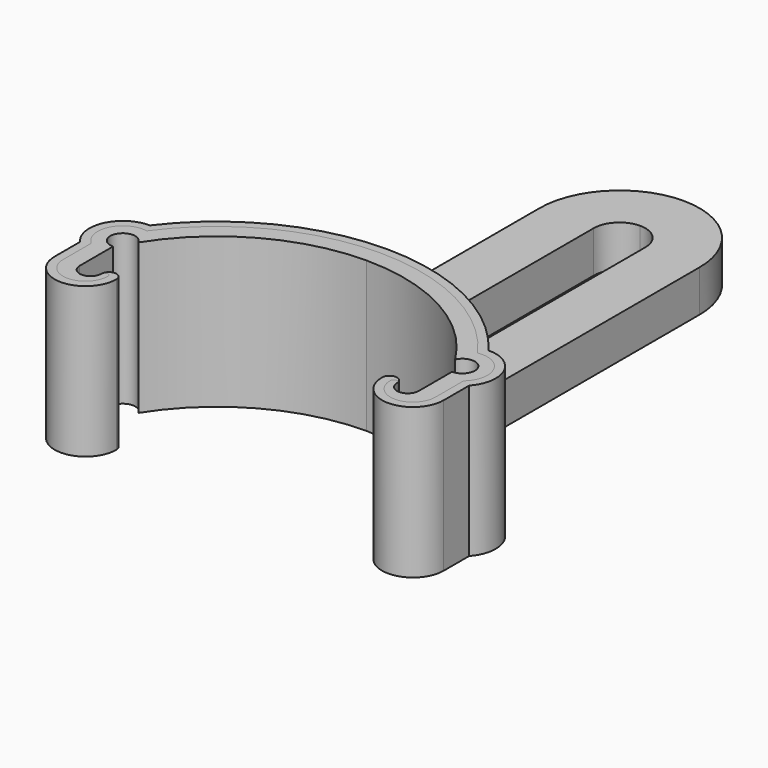
from build123d import *

# Parameters (mm, degrees)
PAD_DEPTH     = 18
PAD001_DEPTH  = 5
FILLET_R      = 4.5
PAD002_DEPTH  = 18
PAD003_START  = -22.5
SKETCH003_R   = 6
SKETCH003_R_2 = 2
PAD003_DEPTH  = 5.5


with BuildPart() as top:
    # Sketch → Pad (new body)
    with BuildSketch(Plane.XY):
        with BuildLine():
            ThreePointArc((19, 11.940476), (10.854147, 19.640837), (0, 22.440476))
            Line((0, 22.440476), (0, 25.440476))
            ThreePointArc((20.308305, 15.322878), (11.344525, 22.771025), (0, 25.440476))
            ThreePointArc((23.330239, 8.636282), (24.012189, 12.970645), (20.308305, 15.322878))
            Line((23.330239, 8.636282), (23.330239, 4.823765))
            ThreePointArc((15.930239, 4.823765), (19.630239, 1.123765), (23.330239, 4.823765))
            ThreePointArc((17.730239, 4.823765), (16.830239, 5.723765), (15.930239, 4.823765))
            ThreePointArc((17.730239, 4.823765), (19.030239, 3.523765), (20.330239, 4.823765))
            Line((20.330239, 9.823765), (20.330239, 4.823765))
            ThreePointArc((20.330239, 9.823765), (21.637179, 12.121454), (19, 11.940476))
        make_face()
    pad = extrude(amount=PAD_DEPTH)

    # Mirrored: Pad across Sketch V_Axis
    add(pad.mirror(Plane(origin=(0, 0, 0), x_dir=(0, 0, 1), z_dir=(1, 0, 0))))

    # Sketch001 (on Face4 of Mirrored) → Pad001 (join)
    with BuildSketch(Plane(origin=(0, 0, 0), x_dir=(1, 0, 0), z_dir=(0, 0, -1))):
        with BuildLine():
            Line((-9.6, -23.559665), (-9.6, -60.340476))
            ThreePointArc((-9.6, -60.340476), (-6.788225, -67.128701), (0, -69.940476))
            Line((0, -69.940476), (0, -63.440476))
            ThreePointArc((-3.1, -60.340476), (-2.192031, -62.532507), (0, -63.440476))
            Line((-3.1, -33.540476), (-3.1, -60.340476))
            ThreePointArc((0, -30.440476), (-2.192031, -31.348445), (-3.1, -33.540476))
            Line((0, -30.440476), (0, -25.440476))
            ThreePointArc((-9.6, -23.559665), (-4.891254, -24.965846), (0, -25.440476))
        make_face()
    pad001 = extrude(amount=-PAD001_DEPTH)

    # Mirrored001: Pad001 across Sketch001 V_Axis
    add(pad001.mirror(Plane(origin=(0, 0, 0), x_dir=(0, 0, -1), z_dir=(1, 0, 0))))

    # Fillet
    fillet_edges = [top.edges().sort_by_distance(p)[0] for p in [
        (-4.891254, 24.965846, 5),
        (4.891254, 24.965846, 5),
    ]]
    fillet(fillet_edges, radius=FILLET_R)


with BuildPart() as side:
    # Sketch002 → Pad002 (new body)
    with BuildSketch(Plane.XY):
        with BuildLine():
            ThreePointArc((19, 11.940476), (10.854147, 19.640837), (0, 22.440476))
            Line((0, 22.440476), (0, 24.440476))
            ThreePointArc((19.837522, 14.27619), (11.144954, 21.75148), (0, 24.440476))
            ThreePointArc((22.330239, 9.054767), (23.07446, 12.615784), (19.837522, 14.27619))
            Line((22.330239, 9.054767), (22.330239, 4.823765))
            ThreePointArc((16.930239, 4.823765), (19.630239, 2.123765), (22.330239, 4.823765))
            ThreePointArc((17.730239, 4.823765), (17.330239, 5.223765), (16.930239, 4.823765))
            ThreePointArc((17.730239, 4.823765), (19.030239, 3.523765), (20.330239, 4.823765))
            Line((20.330239, 9.823765), (20.330239, 4.823765))
            ThreePointArc((20.330239, 9.823765), (21.637179, 12.121454), (19, 11.940476))
        make_face()
    pad002 = extrude(amount=PAD002_DEPTH)

    # Mirrored002: Pad002 across Sketch002 V_Axis
    add(pad002.mirror(Plane(origin=(0, 0, 0), x_dir=(0, 0, 1), z_dir=(1, 0, 0))))

    # Sketch003 → Pad003 (join)
    with BuildSketch(Plane.XZ.offset(PAD003_START)):
        with Locations((0, 8.436387)):
            Circle(SKETCH003_R)
        with Locations((0, 8.436387)):
            Circle(SKETCH003_R_2, mode=Mode.SUBTRACT)
    extrude(amount=-PAD003_DEPTH)


solid = Compound([top.part, side.part])
